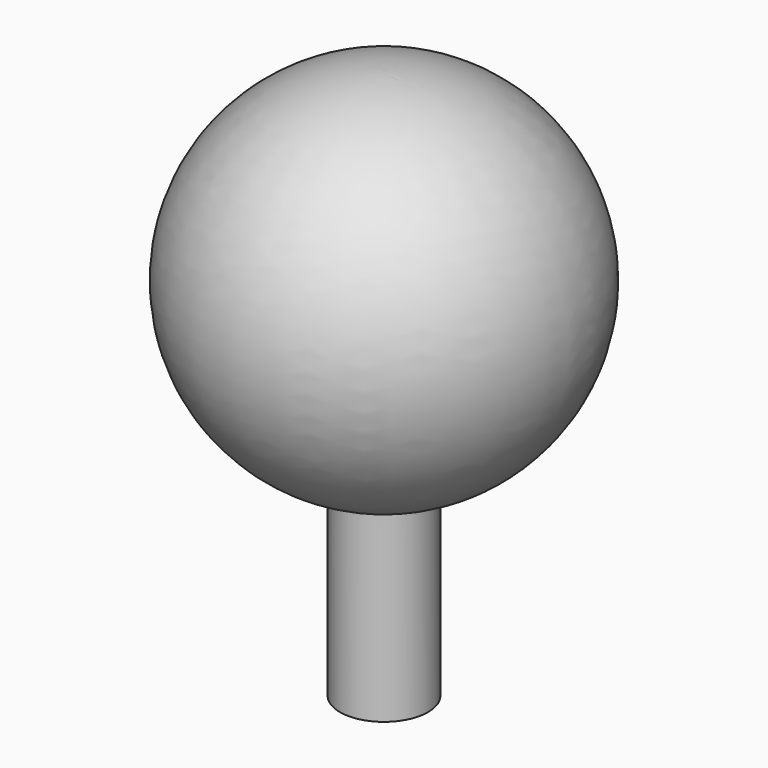
from build123d import *


with BuildPart() as f1:
    # F0 (on Front) → F1 (revolve)
    with BuildSketch(Plane.XZ):
        with BuildLine():
            Line((1.204278, -10), (1.204278, -4.852805))
            ThreePointArc((1.204278, -4.852805), (4.963065, 0.60662), (0, 5))
            Line((0, 5), (0, -10))
            Line((0, -10), (1.204278, -10))
        make_face()
    revolve(axis=Axis((0, 0, -2.5), (0, 0, -1)))


solid = f1.part
